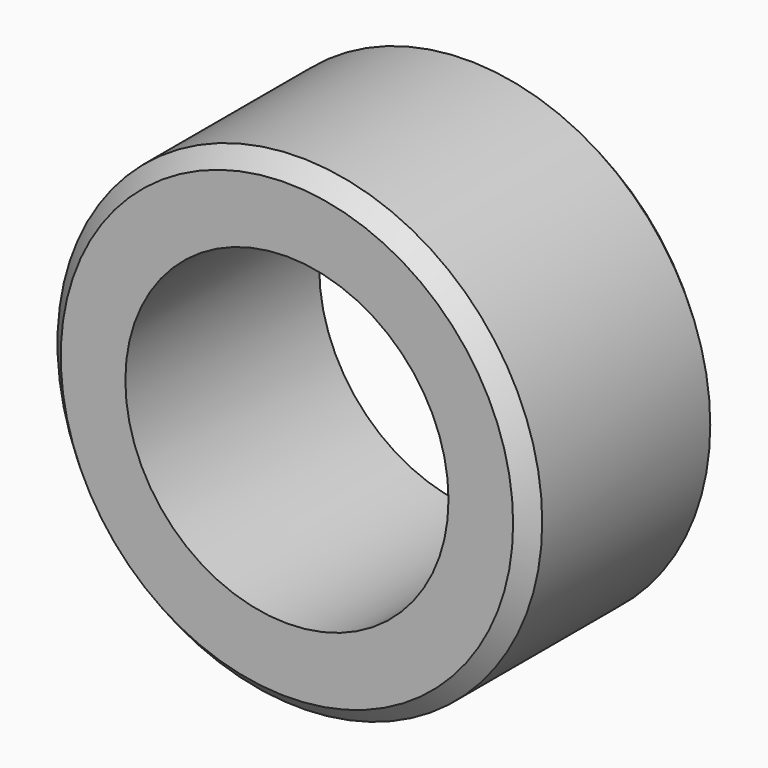
from build123d import *

# Parameters (mm, degrees)
F0_R     = 19.05
F0_R_2   = 12.7
F1_DEPTH = 19.05
F2_SIZE  = 1.27


with BuildPart() as f1:
    # F0 (on Front) → F1 (new body)
    with BuildSketch(Plane.XZ):
        Circle(F0_R)
        Circle(F0_R_2, mode=Mode.SUBTRACT)
        Circle(F0_R)
        Circle(F0_R_2, mode=Mode.SUBTRACT)
    extrude(amount=F1_DEPTH)

    # F2
    f2_edges = [f1.edges().sort_by_distance(p)[0] for p in [
        (-19.05, 0, 0),
        (-19.05, -19.05, 0),
    ]]
    chamfer(f2_edges, length=F2_SIZE)


solid = f1.part
